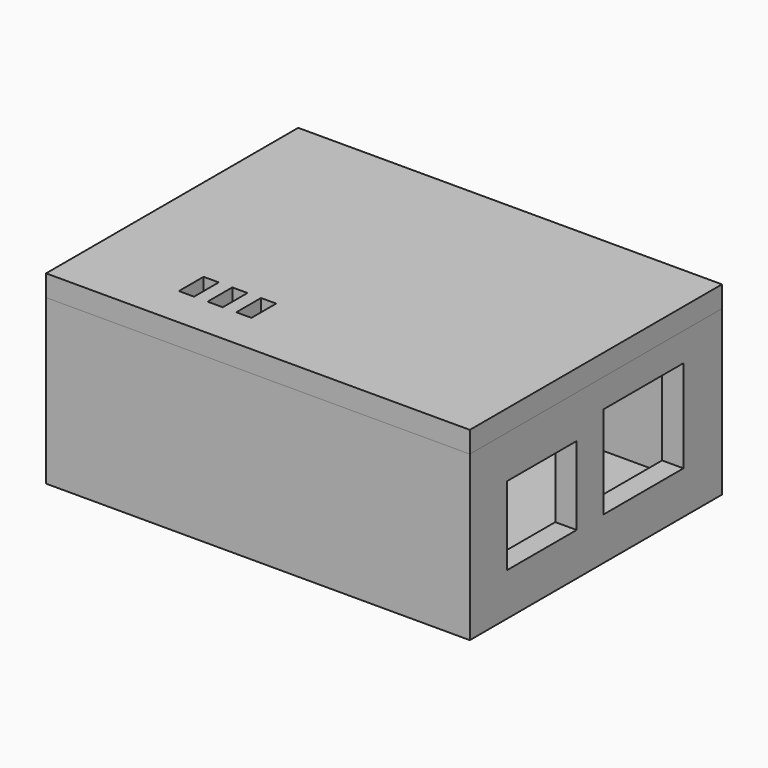
from build123d import *

# Parameters (mm, degrees)
SKETCH001_W     = 59.5
SKETCH001_H     = 44.25
PAD_DEPTH       = 2
SKETCH002_W     = 59.5
SKETCH002_H     = 44.25
SKETCH002_W_2   = 53.5
SKETCH002_H_2   = 38.25
PAD001_DEPTH    = 21
SKETCH003_W     = 14
SKETCH003_H     = 13
POCKET_DEPTH    = 3
SKETCH004_W     = 12.25
SKETCH004_H     = 11
POCKET001_DEPTH = 3
SKETCH009_W     = 6
SKETCH009_H     = 1
POCKET002_DEPTH = 1
SKETCH010_W     = 6
SKETCH010_H     = 1
POCKET003_DEPTH = 1
SKETCH011_W     = 18.15
SKETCH011_H     = 8.5
POCKET004_DEPTH = 3
SKETCH005_W     = 59.5
SKETCH005_H     = 44.25
SKETCH005_W_2   = 2.13
SKETCH005_H_2   = 4.34
PAD002_DEPTH    = 3
SKETCH006_W     = 53.5
SKETCH006_H     = 38.25
SKETCH006_W_2   = 2.13
SKETCH006_H_2   = 4.34
PAD003_DEPTH    = 3
SKETCH007_W     = 6
SKETCH007_H     = 1
PAD004_DEPTH    = 1
SKETCH008_W     = 6
SKETCH008_H     = 1
PAD005_DEPTH    = 1
FILLET_R        = 0.4


with BuildPart() as body:
    # Sketch001 → Pad (new body)
    with BuildSketch(Plane.XY):
        Rectangle(SKETCH001_W, SKETCH001_H)
    extrude(amount=PAD_DEPTH)

    # Sketch002 (on Face6 of Pad) → Pad001 (join)
    with BuildSketch(Plane.XY.offset(2)):
        Rectangle(SKETCH002_W, SKETCH002_H)
        Rectangle(SKETCH002_W_2, SKETCH002_H_2, mode=Mode.SUBTRACT)
    extrude(amount=PAD001_DEPTH)

    # Sketch003 (on Face6 of Pad001) → Pocket (cut)
    with BuildSketch(Plane(origin=(26.75, 0, 0), x_dir=(0, -1, 0), z_dir=(-1, 0, 0))):
        with Locations((-8.375, 12.5)):
            Rectangle(SKETCH003_W, SKETCH003_H)
    extrude(amount=-POCKET_DEPTH, mode=Mode.SUBTRACT)

    # Sketch004 (on Face13 of Pocket) → Pocket001 (cut)
    with BuildSketch(Plane(origin=(26.75, 0, 0), x_dir=(0, -1, 0), z_dir=(-1, 0, 0))):
        with Locations((9.5, 11.5)):
            Rectangle(SKETCH004_W, SKETCH004_H)
    extrude(amount=-POCKET001_DEPTH, mode=Mode.SUBTRACT)

    # Sketch009 (on Face18 of Pocket001) → Pocket002 (cut)
    with BuildSketch(Plane.XZ.offset(-19.125)):
        with Locations((0, 21.5)):
            Rectangle(SKETCH009_W, SKETCH009_H)
    extrude(amount=-POCKET002_DEPTH, mode=Mode.SUBTRACT)

    # Sketch010 (on Face16 of Pocket002) → Pocket003 (cut)
    with BuildSketch(Plane(origin=(0, -19.125, 0), x_dir=(-1, 0, 0), z_dir=(0, 1, 0))):
        with Locations((0, 21.5)):
            Rectangle(SKETCH010_W, SKETCH010_H)
    extrude(amount=-POCKET003_DEPTH, mode=Mode.SUBTRACT)

    # Sketch011 (on Face15 of Pocket003) → Pocket004 (cut)
    with BuildSketch(Plane.YZ.offset(-26.75)):
        with Locations((7.4, 6.25)):
            Rectangle(SKETCH011_W, SKETCH011_H)
    extrude(amount=-POCKET004_DEPTH, mode=Mode.SUBTRACT)


with BuildPart() as lid:
    # Sketch005 (on DatumPlane) → Pad002 (new body)
    with BuildSketch(Plane.XY.offset(23)):
        Rectangle(SKETCH005_W, SKETCH005_H)
        with Locations((-14.685, -14.145)):
            Rectangle(SKETCH005_W_2, SKETCH005_H_2, mode=Mode.SUBTRACT)
        with Locations((-10.655, -14.145)):
            Rectangle(SKETCH005_W_2, SKETCH005_H_2, mode=Mode.SUBTRACT)
        with Locations((-6.625, -14.145)):
            Rectangle(SKETCH005_W_2, SKETCH005_H_2, mode=Mode.SUBTRACT)
    extrude(amount=PAD002_DEPTH)

    # Sketch006 (on Face17 of Pad002) → Pad003 (join)
    with BuildSketch(Plane(origin=(0, 0, 23), x_dir=(1, 0, 0), z_dir=(0, 0, -1))):
        Rectangle(SKETCH006_W, SKETCH006_H)
        with Locations((-6.625, 14.145)):
            Rectangle(SKETCH006_W_2, SKETCH006_H_2, mode=Mode.SUBTRACT)
        with Locations((-10.655, 14.145)):
            Rectangle(SKETCH006_W_2, SKETCH006_H_2, mode=Mode.SUBTRACT)
        with Locations((-14.685, 14.145)):
            Rectangle(SKETCH006_W_2, SKETCH006_H_2, mode=Mode.SUBTRACT)
    extrude(amount=PAD003_DEPTH)

    # Sketch007 (on Face10 of Pad003) → Pad004 (join)
    with BuildSketch(Plane(origin=(0, -19.125, 23), x_dir=(1, 0, 0), z_dir=(0, -1, 0))):
        with Locations((0, -1.5)):
            Rectangle(SKETCH007_W, SKETCH007_H)
    extrude(amount=PAD004_DEPTH)

    # Sketch008 (on Face8 of Pad004) → Pad005 (join)
    with BuildSketch(Plane(origin=(0, 19.125, 23), x_dir=(-1, 0, 0), z_dir=(0, 1, 0))):
        with Locations((0, -1.5)):
            Rectangle(SKETCH008_W, SKETCH008_H)
    extrude(amount=PAD005_DEPTH)

    # Fillet
    fillet_edges = [lid.edges().sort_by_distance(p)[0] for p in [
        (0, 20.125, 22),
        (0, 20.125, 21),
        (0, -20.125, 22),
        (0, -20.125, 21),
    ]]
    fillet(fillet_edges, radius=FILLET_R)


solid = Compound([body.part, lid.part])
